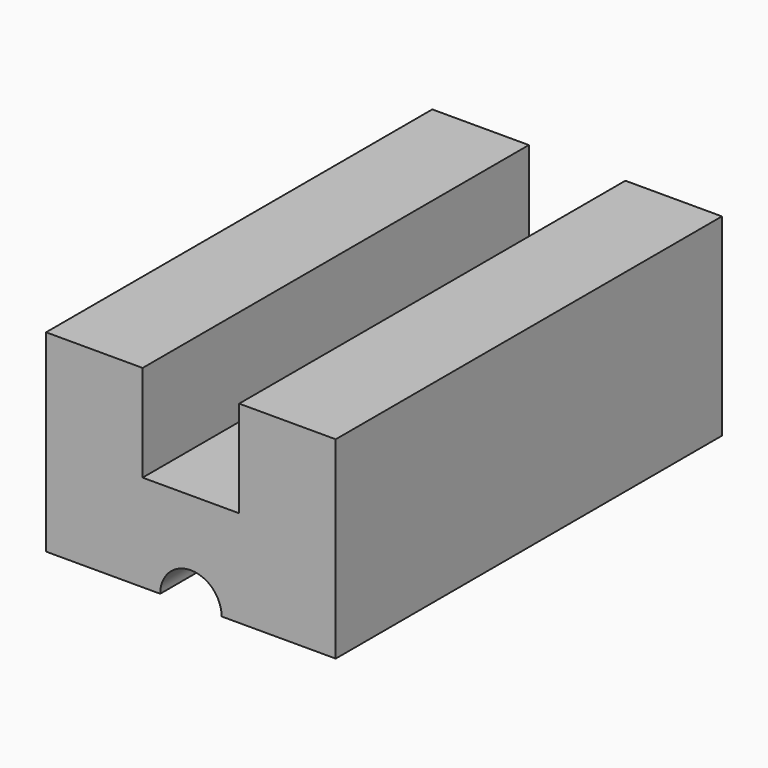
from build123d import *

# Parameters (mm, degrees)
F1_DEPTH = 12.7
F2_R     = 0.808299
F3_DEPTH = 25.4


with BuildPart() as f1:
    # F0 (on Front) → F1 (new body)
    with BuildSketch(Plane.XZ):
        Polygon((-1.27, 0.892354), (-3.81, 0.892354), (-3.81, -4.187646), (3.81, -4.187646), (3.81, 0.892354), (1.27, 0.892354), (1.27, -1.647646), (-1.27, -1.647646), align=None)
    extrude(amount=F1_DEPTH)

    # F2 (on face) → F3 (cut)
    with BuildSketch(Plane.XZ.offset(12.7)):
        with Locations((0, -4.187646)):
            Circle(F2_R)
    extrude(amount=-F3_DEPTH, mode=Mode.SUBTRACT)


solid = f1.part
